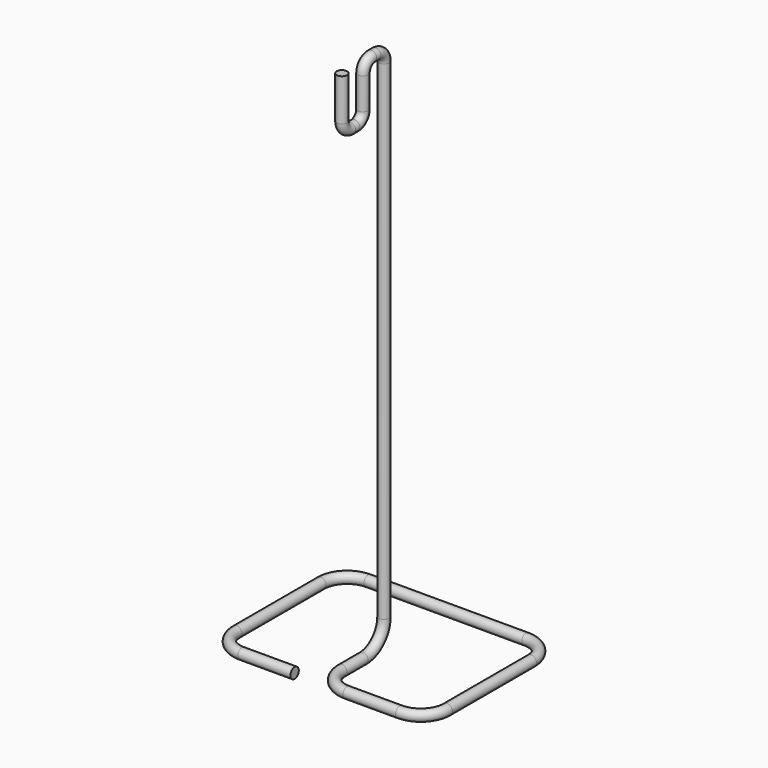
from build123d import *

# Parameters (mm, degrees)
F3_R          = 1
F7_DEPTH      = 3
F7_DEPTH_BACK = 3
F7_FACE_R     = 1


with BuildPart() as f4:
    # F4: sweep along a path in F0, F1
    with BuildLine(Plane.XY) as f4_path:
        Line((-5, -15), (-15, -15))
        ThreePointArc((-15, -15), (-18.5355339059, -13.5355339059), (-20, -10))
        Line((-20, -10), (-20, 10))
        ThreePointArc((-20, 10), (-18.5355339059, 13.5355339059), (-15, 15))
        Line((-15, 15), (15, 15))
        ThreePointArc((15, 15), (18.5355339059, 13.5355339059), (20, 10))
        Line((20, 10), (20, -10))
        ThreePointArc((20, -10), (18.5355339059, -13.5355339059), (15, -15))
        Line((15, -15), (5, -15))
        ThreePointArc((5, -15), (1.4644660941, -13.5355339059), (0, -10))
        Line((0, -10), (0, 0))
    with BuildLine(Plane.YZ) as f4_path_2:
        Line((0, 0), (0, 98))
        ThreePointArc((0, 98), (-0.5857864376, 99.4142135624), (-2, 100))
        Line((-2, 100), (-3, 100))
        ThreePointArc((-3, 100), (-4.4142135624, 99.4142135624), (-5, 98))
        Line((-5, 98), (-5, 92))
        ThreePointArc((-5, 92), (-5.5857864376, 90.5857864376), (-7, 90))
        Line((-7, 90), (-8, 90))
        ThreePointArc((-8, 90), (-9.4142135624, 90.5857864376), (-10, 92))
        Line((-10, 92), (-10, 100))
    # F3 (on plane+point) → F4 (sweep)
    with BuildSketch(Plane.YZ.offset(-5)):
        with Locations((-15, 0)):
            Circle(F3_R)
    sweep(path=f4_path.line + f4_path_2.line, transition=Transition.RIGHT)

    # F6 (on Right) → F7 (cut, two sides)
    with BuildSketch(Plane.YZ) as f7_sk:
        Polygon((0, 5), (-5, 5), (-5, 0), (-5, -1.7735956935), (2.5129853748, -1.7735956935), (2.5129853748, 5), align=None)
    extrude(amount=-F7_DEPTH, mode=Mode.SUBTRACT)
    extrude(f7_sk.sketch, amount=F7_DEPTH_BACK, mode=Mode.SUBTRACT)

    # F8: sweep along a path in F5
    with BuildLine(Plane.YZ) as f8_path:
        ThreePointArc((-5, 0), (-1.4644660941, 1.4644660941), (0, 5))
    # F7_face (on face) → F8 (sweep)
    with BuildSketch(Plane(origin=(0, 0, 5), x_dir=(1, 0, 0), z_dir=(0, 0, -1))):
        Circle(F7_FACE_R)
    sweep(path=f8_path.line)


solid = f4.part
